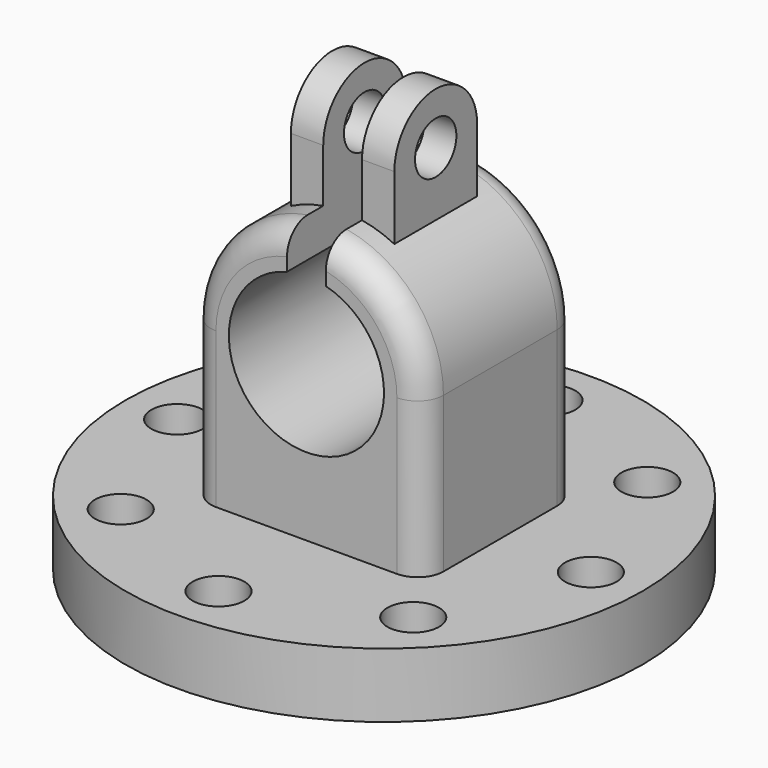
from build123d import *

# Parameters (mm, degrees)
SKETCH_R           = 20
PAD_DEPTH          = 5
PAD001_DEPTH       = 7.5
PAD002_DEPTH       = 4
SKETCH003_R        = 2
POCKET_DEPTH       = 24.001
POCKET001_DEPTH    = 27.501
SKETCH005_R        = 2
POCKET002_DEPTH    = 137.001
POLARPATTERN_COUNT = 8
FILLET_R           = 2


with BuildPart() as part:
    # Sketch → Pad (new body)
    with BuildSketch(Plane.XY):
        Circle(SKETCH_R)
    extrude(amount=PAD_DEPTH)

    # Sketch001 → Pad001 (join, symmetric)
    with BuildSketch(Plane.XZ):
        with BuildLine():
            ThreePointArc((9, 17), (0, 26), (-9, 17))
            Line((-9, 5), (-9, 17))
            Line((9, 5), (-9, 5))
            Line((9, 17), (9, 5))
        make_face()
    extrude(amount=PAD001_DEPTH, both=True)

    # Sketch002 → Pad002 (join, symmetric)
    with BuildSketch(Plane.YZ):
        with BuildLine():
            Line((-4, 14), (-4, 30))
            ThreePointArc((4, 30), (0, 34), (-4, 30))
            Line((4, 30), (4, 14))
            Line((4, 14), (-4, 14))
        make_face()
    extrude(amount=PAD002_DEPTH, both=True)

    # Sketch003 (on Face9 of Pad002) → Pocket (cut, through all)
    with BuildSketch(Plane(origin=(-4, 0, 0), x_dir=(0, -1, 0), z_dir=(-1, 0, 0))):
        with Locations((0, 30)):
            Circle(SKETCH003_R)
    extrude(amount=-POCKET_DEPTH, mode=Mode.SUBTRACT)

    # Sketch004 (on Face7 of Pocket) → Pocket001 (cut, through all)
    with BuildSketch(Plane(origin=(0, 7.5, 0), x_dir=(-1, 0, 0), z_dir=(0, 1, 0))):
        with BuildLine():
            ThreePointArc((-1.5, 22.809475), (0, 11), (1.5, 22.809475))
            Line((1.5, 37.2), (1.5, 22.809475))
            Line((-1.5, 37.2), (1.5, 37.2))
            Line((-1.5, 22.809475), (-1.5, 37.2))
        make_face()
    extrude(amount=-POCKET001_DEPTH, mode=Mode.SUBTRACT)

    # Sketch005 (on Face3 of Pocket001) → Pocket002 (cut, through all)
    with BuildSketch(Plane.XY.offset(5)):
        with Locations((16, 0)):
            Circle(SKETCH005_R)
    pocket002 = extrude(amount=-POCKET002_DEPTH, mode=Mode.SUBTRACT)

    # PolarPattern: Pocket002 ×8 about axis
    polarpattern_axis = Axis((0, 0, 5), (0, 0, 1))
    for i in range(1, POLARPATTERN_COUNT):
        add(pocket002.rotate(polarpattern_axis, i * 360 / POLARPATTERN_COUNT), mode=Mode.SUBTRACT)

    # Fillet
    fillet_edges = [part.edges().sort_by_distance(p)[0] for p in [
        (-6.873864, -7.5, 22.809475),
        (6.873864, -7.5, 22.809475),
        (6.873864, 7.5, 22.809475),
        (-6.873864, 7.5, 22.809475),
    ]]
    fillet(fillet_edges, radius=FILLET_R)


solid = part.part
